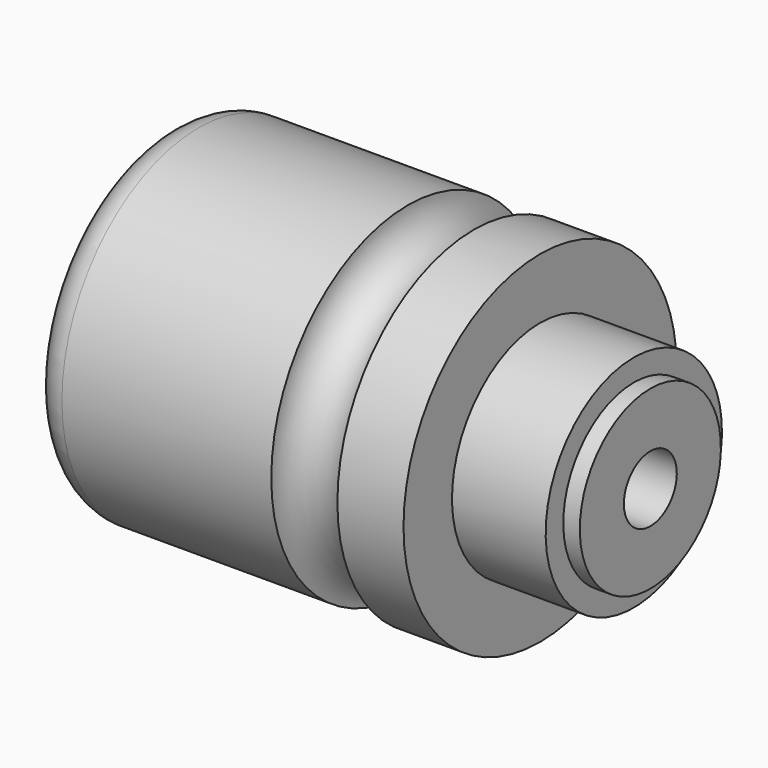
from build123d import *


with BuildPart() as f1:
    # F0 (on Front) → F1 (revolve)
    with BuildSketch(Plane.XZ):
        with BuildLine():
            Line((-56.5, 6), (0, 6))
            Line((0, 6), (0, 16))
            Line((0, 16), (-3, 16))
            Line((-3, 16), (-3, 20))
            Line((-3, 20), (-20, 20))
            Line((-20, 20), (-20, 31))
            Line((-20, 31), (-32, 31))
            ThreePointArc((-32, 31), (-38, 25), (-44, 31))
            Line((-44, 31), (-82, 31))
            ThreePointArc((-82, 31), (-86.242641, 29.242641), (-88, 25))
            Line((-88, 25), (-86.5, 25))
            Line((-86.5, 25), (-86.5, 16))
            Line((-86.5, 16), (-74.5, 16))
            Line((-74.5, 16), (-74.5, 13))
            Line((-74.5, 13), (-71.5, 13))
            Line((-71.5, 13), (-71.5, 20.5))
            Line((-71.5, 20.5), (-64.5, 20.5))
            Line((-64.5, 20.5), (-64.5, 16))
            Line((-64.5, 16), (-56.5, 16))
            Line((-56.5, 16), (-56.5, 6))
        make_face()
    revolve(axis=Axis((-44, 0, 0), (1, 0, 0)))


solid = f1.part
